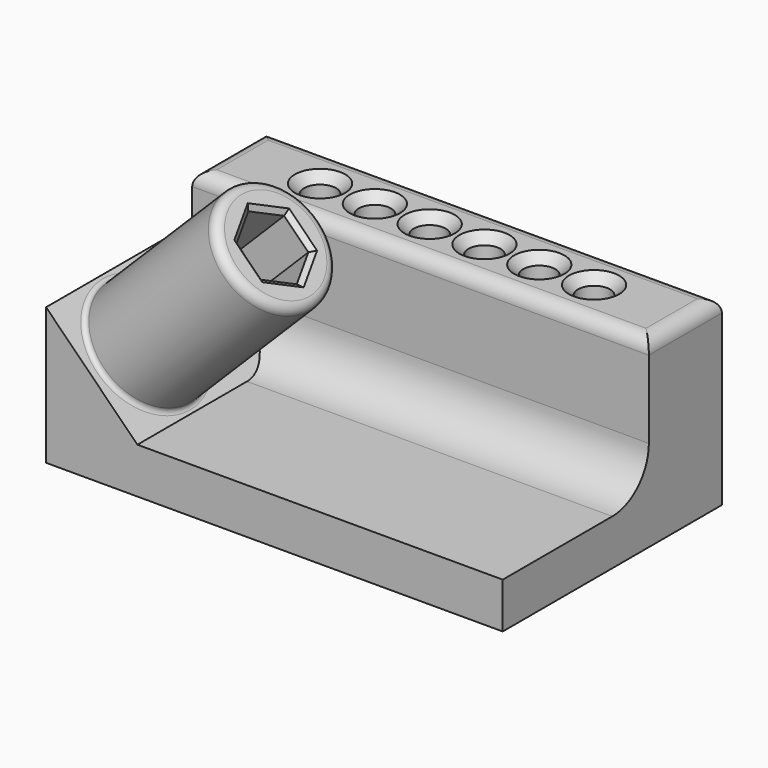
from build123d import *

# Parameters (mm, degrees)
SKETCH_W            = 100
SKETCH_H            = 60
PAD_DEPTH           = 10
SKETCH001_W         = 100
SKETCH001_H         = 20
PAD001_DEPTH        = 30
SKETCH002_R         = 3.5
POCKET_DEPTH        = 30
LINEARPATTERN_COUNT = 6
LINEARPATTERN_PITCH = 12
CHAMFER_SIZE        = 2
FILLET_R            = 10
FILLET001_R         = 3
PAD002_DEPTH        = 60
SKETCH004_R         = 12.5
PAD003_DEPTH        = 40
POCKET001_DEPTH     = 61.2142034356
FILLET002_R         = 2
CHAMFER001_SIZE     = 1
FILLET003_R         = 1


with BuildPart() as part:
    # Sketch → Pad (new body)
    with BuildSketch(Plane.XY):
        with Locations((50, 30)):
            Rectangle(SKETCH_W, SKETCH_H)
    extrude(amount=PAD_DEPTH)

    # Sketch001 (on Face6 of Pad) → Pad001 (join)
    with BuildSketch(Plane.XY.offset(10)):
        with Locations((50, 50)):
            Rectangle(SKETCH001_W, SKETCH001_H)
    extrude(amount=PAD001_DEPTH)

    # Sketch002 (on Face11 of Pad001) → Pocket (cut)
    with BuildSketch(Plane.XY.offset(40)):
        with Locations((80, 50)):
            Circle(SKETCH002_R)
    pocket = extrude(amount=-POCKET_DEPTH, mode=Mode.SUBTRACT)

    # LinearPattern: Pocket ×6
    with Locations(*[(-i * LINEARPATTERN_PITCH, 0, 0) for i in range(1, LINEARPATTERN_COUNT)]):
        add(pocket, mode=Mode.SUBTRACT)

    # Chamfer
    chamfer_edges = [part.edges().sort_by_distance(p)[0] for p in [
        (28.5, 50, 40),
        (16.5, 50, 40),
        (40.5, 50, 40),
        (52.5, 50, 40),
        (64.5, 50, 40),
        (76.5, 50, 40),
    ]]
    chamfer(chamfer_edges, length=CHAMFER_SIZE)

    # Fillet
    fillet_edges = [part.edges().sort_by_distance(p)[0] for p in [
        (50, 40, 10),
    ]]
    fillet(fillet_edges, radius=FILLET_R)

    # Fillet001
    fillet001_edges = [part.edges().sort_by_distance(p)[0] for p in [
        (0, 50, 40),
        (50, 60, 40),
        (50, 40, 40),
        (100, 50, 40),
    ]]
    fillet(fillet001_edges, radius=FILLET001_R)

    # Sketch003 (on Face13 of Fillet001) → Pad002 (join)
    with BuildSketch(Plane.XZ):
        Polygon((0, 10), (0, 30), (20, 10), align=None)
    extrude(amount=-PAD002_DEPTH)

    # Sketch004 (on Face7 of Pad002) → Pad003 (join)
    with BuildSketch(Plane(origin=(15, 0, 15), x_dir=(0, 1, 0), z_dir=(0.7071067812, 0, 0.7071067812))):
        with Locations((15, 7.0710678119)):
            Circle(SKETCH004_R)
    extrude(amount=PAD003_DEPTH)

    # Sketch005 (on Face22 of Pad003) → Pocket001 (cut, through all)
    with BuildSketch(Plane(origin=(43.2842712475, 0, 43.2842712475), x_dir=(0.7071067812, 0, -0.7071067812), z_dir=(0.7071067812, 0, 0.7071067812))):
        Polygon((-3.3182910621, 21.5), (-10.8238445616, 21.5), (-14.5766213113, 15), (-10.8238445616, 8.5), (-3.3182910621, 8.5), (0.4344856876, 15), align=None)
    extrude(amount=-POCKET001_DEPTH, mode=Mode.SUBTRACT)

    # Fillet002
    fillet002_edges = [part.edges().sort_by_distance(p)[0] for p in [
        (38.284271, 2.5, 48.284271),
    ]]
    fillet(fillet002_edges, radius=FILLET002_R)

    # Chamfer001
    chamfer001_edges = [part.edges().sort_by_distance(p)[0] for p in [
        (38.284271, 21.5, 48.284271),
        (34.30385, 18.25, 52.264692),
        (34.30385, 11.75, 52.264692),
        (38.284271, 8.5, 48.284271),
        (42.264692, 11.75, 44.30385),
        (42.264692, 18.25, 44.30385),
    ]]
    chamfer(chamfer001_edges, length=CHAMFER001_SIZE)

    # Fillet003
    fillet003_edges = [part.edges().sort_by_distance(p)[0] for p in [
        (10, 2.5, 20),
    ]]
    fillet(fillet003_edges, radius=FILLET003_R)


solid = part.part
